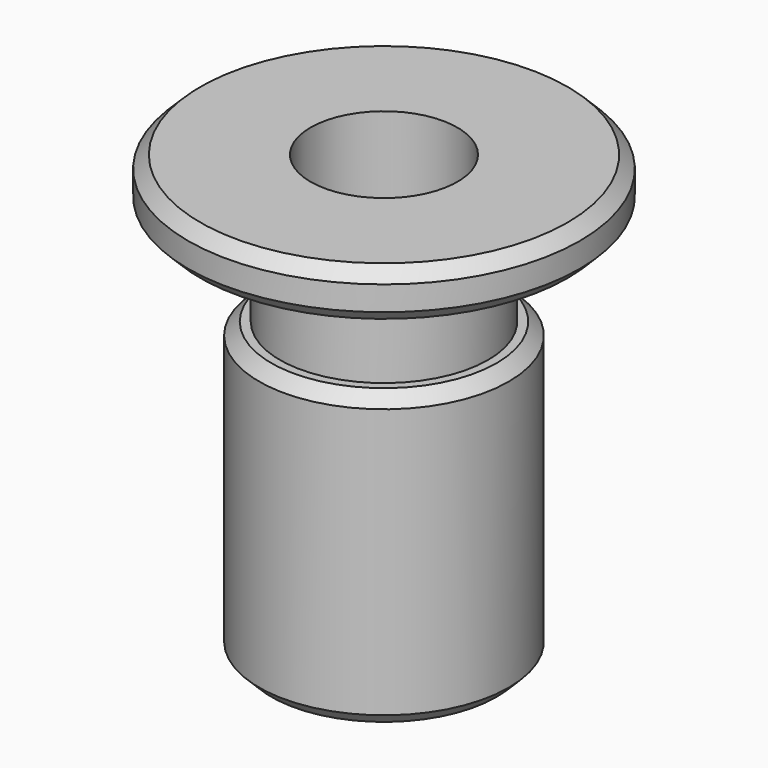
from build123d import *

# Parameters (mm, degrees)
F2_SIZE2 = 0.5
F2_SIZE  = 0.5
F4_D     = 6


with BuildPart() as f1:
    # F0 (on Front) → F1 (revolve)
    with BuildSketch(Plane.XZ):
        Polygon((8, -199.845054), (0, -199.845054), (0, -217.845054), (5.1, -217.845054), (5.1, -205.845054), (4.25, -205.845054), (4.25, -201.845054), (8, -201.845054), align=None)
    revolve(axis=Axis((0, 0, -208.845054), (0, 0, 1)))

    # F2
    f2_edges = [f1.edges().sort_by_distance(p)[0] for p in [
        (-8, 0, -199.845054),
        (-8, 0, -201.845054),
        (-5.1, 0, -205.845054),
        (-5.1, 0, -217.845054),
    ]]
    chamfer(f2_edges, length=F2_SIZE, length2=F2_SIZE2)

    # F4 (through all)
    with Locations(Plane.XY.offset(-199.845054)):
        with Locations((0, 0)):
            Hole(F4_D / 2)


solid = f1.part
